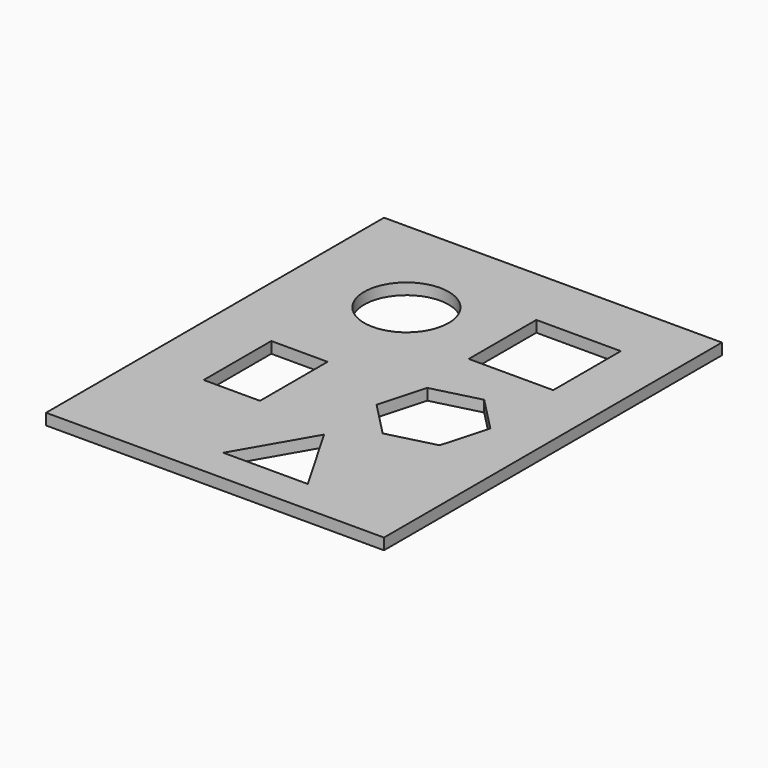
from build123d import *

# Parameters (mm, degrees)
F0_W     = 152.4
F0_H     = 190.5
F1_DEPTH = 5.08
F2_W     = 38.1
F2_H     = 38.1
F2_R     = 19.05
F2_W_2   = 25.4
F3_DEPTH = 25.4


with BuildPart() as f1:
    # F0 (on Top) → F1 (new body)
    with BuildSketch(Plane.XY):
        with Locations((-10.361006, 12.33527)):
            Rectangle(F0_W, F0_H)
    extrude(amount=F1_DEPTH)

    # F2 (on face) → F3 (cut)
    with BuildSketch(Plane.XY.offset(5.08)):
        with Locations((23.089969, 61.145121)):
            Rectangle(F2_W, F2_H)
        Polygon((19.348822, -67.770637), (0.298822, -34.775069), (-18.751178, -67.770637), align=None)
        with Locations((-37.642254, 59.088646)):
            Circle(F2_R)
        Polygon((15.868925, -21.180481), (37.180649, -15.732507), (43.118428, 5.447974), (27.744482, 21.180481), (6.432758, 15.732507), (0.49498, -5.447974), align=None)
        with Locations((-46.103996, -9.714661)):
            Rectangle(F2_W_2, F2_H)
    extrude(amount=-F3_DEPTH, mode=Mode.SUBTRACT)


solid = f1.part
